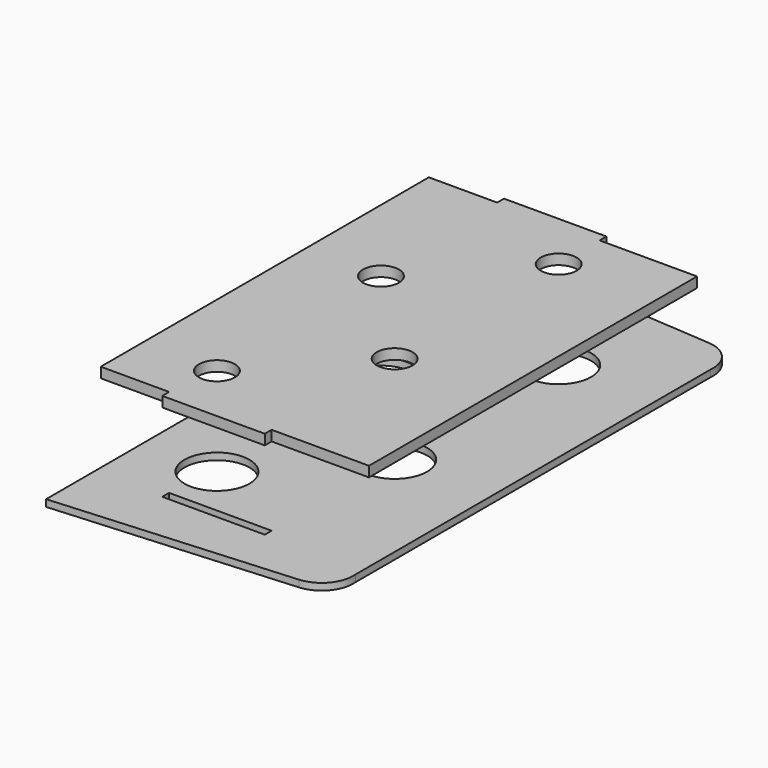
from build123d import *

# Parameters (mm, degrees)
F1_DEPTH = 2
F2_R     = 9.5
F3_DEPTH = 2
F5_R     = 5.25
F6_DEPTH = 3
F7_W     = 30
F7_H     = 2.5
F8_DEPTH = 2


with BuildPart() as f1:
    # F0 (on Top) → F1 (new body)
    with BuildSketch(Plane.XY):
        with BuildLine():
            Line((27.211278, 75), (-42.788722, 80))
            Line((-42.788722, 80), (-42.788722, -80))
            Line((-42.788722, -80), (27.211278, -75))
            ThreePointArc((27.211278, -75), (33.557679, -71.783789), (35.702676, -65))
            Line((35.702676, -65), (35.702676, 65))
            ThreePointArc((35.702676, 65), (33.557679, 71.783789), (27.211278, 75))
        make_face()
    extrude(amount=F1_DEPTH)

    # F2 (on face) → F3 (cut, through all)
    with BuildSketch(Plane.XY.offset(2)):
        with Locations((7.211278, 45)):
            Circle(F2_R)
        with Locations((-20.788722, 15)):
            Circle(F2_R)
        with Locations((7.211278, -15)):
            Circle(F2_R)
        with Locations((-20.788722, -45)):
            Circle(F2_R)
    extrude(amount=-F3_DEPTH, mode=Mode.SUBTRACT)

    # F7 (on face) → F8 (cut, through all)
    with BuildSketch(Plane.XY.offset(2)):
        with Locations((-7.788722, 61.25)):
            Rectangle(F7_W, F7_H)
        with Locations((-7.788722, -61.25)):
            Rectangle(F7_W, F7_H)
    extrude(amount=-F8_DEPTH, mode=Mode.SUBTRACT)


with BuildPart() as f6:
    # F5 (on offset) → F6 (new body)
    with BuildSketch(Plane.XY.offset(25)):
        Polygon((-22.788722, 60), (-42.788722, 60), (-42.788722, -60), (-22.788722, -60), (-22.788722, -62.5), (7.211278, -62.5), (7.211278, -60), (35.702676, -60), (35.702676, 60), (7.211278, 60), (7.211278, 62.5), (-22.788722, 62.5), align=None)
        with Locations((-20.788722, -45)):
            Circle(F5_R, mode=Mode.SUBTRACT)
        with Locations((7.211278, -15)):
            Circle(F5_R, mode=Mode.SUBTRACT)
        with Locations((-20.788722, 15)):
            Circle(F5_R, mode=Mode.SUBTRACT)
        with Locations((7.211278, 45)):
            Circle(F5_R, mode=Mode.SUBTRACT)
    extrude(amount=F6_DEPTH)


solid = Compound([f1.part, f6.part])
